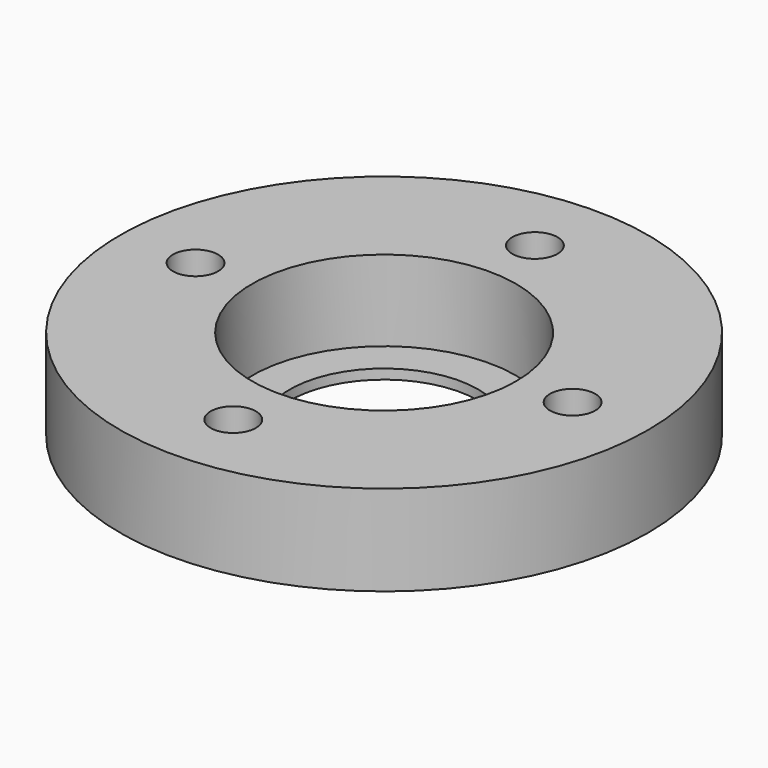
from build123d import *

# Parameters (mm, degrees)
F0_R     = 35
F1_DEPTH = 12
F2_R     = 12.5
F3_DEPTH = 25
F4_R     = 17.5
F5_DEPTH = 10.7
F6_R     = 3
F7_DEPTH = 25


with BuildPart() as f1:
    # F0 (on Top) → F1 (new body)
    with BuildSketch(Plane.XY):
        Circle(F0_R)
    extrude(amount=F1_DEPTH)

    # F2 (on face) → F3 (cut)
    with BuildSketch(Plane.XY.offset(12)):
        Circle(F2_R)
    extrude(amount=-F3_DEPTH, mode=Mode.SUBTRACT)

    # F4 (on face) → F5 (cut)
    with BuildSketch(Plane.XY.offset(12)):
        Circle(F4_R)
    extrude(amount=-F5_DEPTH, mode=Mode.SUBTRACT)

    # F6 (on face) → F7 (cut)
    with BuildSketch(Plane.XY.offset(12)):
        with Locations((-25, 0)):
            Circle(F6_R)
        with Locations((0, 25)):
            Circle(F6_R)
        with Locations((25, 0)):
            Circle(F6_R)
        with Locations((0, -25)):
            Circle(F6_R)
    extrude(amount=-F7_DEPTH, mode=Mode.SUBTRACT)


solid = f1.part
